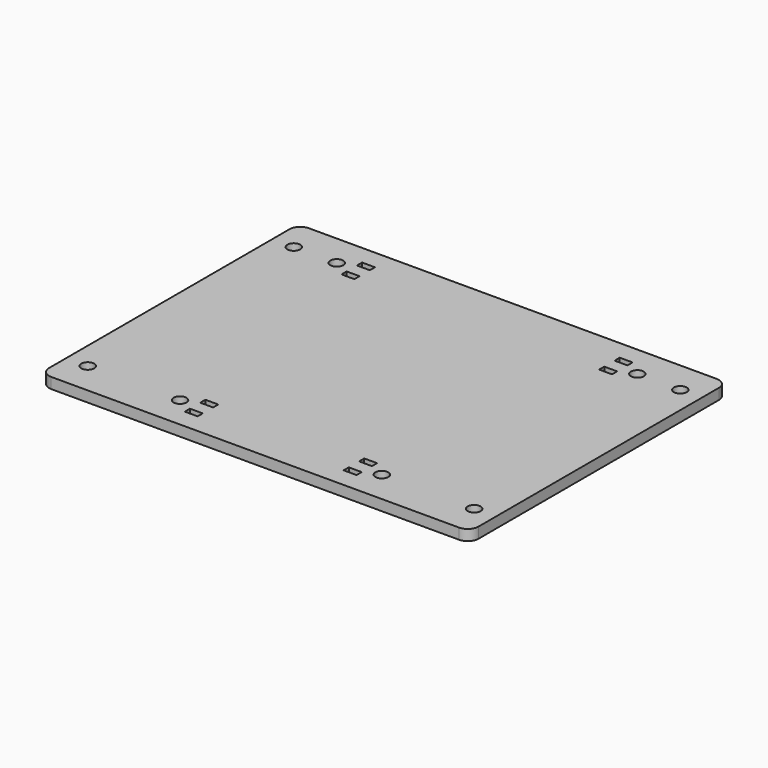
from build123d import *

# Parameters (mm, degrees)
F0_R     = 3
F0_W     = 6
F0_H     = 3
F1_DEPTH = 5


with BuildPart() as f1:
    # F0 (on Top) → F1 (new body)
    with BuildSketch(Plane.XY):
        with BuildLine():
            ThreePointArc((100, 70), (98.535534, 73.535534), (95, 75))
            Line((95, 75), (-95, 75))
            ThreePointArc((-95, 75), (-98.535534, 73.535534), (-100, 70))
            Line((-100, 70), (-100, -70))
            ThreePointArc((-100, -70), (-98.535534, -73.535534), (-95, -75))
            Line((-95, -75), (95, -75))
            ThreePointArc((95, -75), (98.535534, -73.535534), (100, -70))
            Line((100, -70), (100, 70))
        make_face()
        with Locations((-90, -60)):
            Circle(F0_R, mode=Mode.SUBTRACT)
        with Locations((-47, -60)):
            Circle(F0_R, mode=Mode.SUBTRACT)
        with Locations((-37, -64.5)):
            Rectangle(F0_W, F0_H, mode=Mode.SUBTRACT)
        with Locations((-37, -55.5)):
            Rectangle(F0_W, F0_H, mode=Mode.SUBTRACT)
        with Locations((37, -64.5)):
            Rectangle(F0_W, F0_H, mode=Mode.SUBTRACT)
        with Locations((47, -60)):
            Circle(F0_R, mode=Mode.SUBTRACT)
        with Locations((37, -55.5)):
            Rectangle(F0_W, F0_H, mode=Mode.SUBTRACT)
        with Locations((90, -60)):
            Circle(F0_R, mode=Mode.SUBTRACT)
        with Locations((-60, 55.5)):
            Rectangle(F0_W, F0_H, mode=Mode.SUBTRACT)
        with Locations((-90, 60)):
            Circle(F0_R, mode=Mode.SUBTRACT)
        with Locations((-70, 60)):
            Circle(F0_R, mode=Mode.SUBTRACT)
        with Locations((-60, 64.5)):
            Rectangle(F0_W, F0_H, mode=Mode.SUBTRACT)
        with Locations((60, 55.5)):
            Rectangle(F0_W, F0_H, mode=Mode.SUBTRACT)
        with Locations((60, 64.5)):
            Rectangle(F0_W, F0_H, mode=Mode.SUBTRACT)
        with Locations((70, 60)):
            Circle(F0_R, mode=Mode.SUBTRACT)
        with Locations((90, 60)):
            Circle(F0_R, mode=Mode.SUBTRACT)
    extrude(amount=F1_DEPTH)


solid = f1.part
